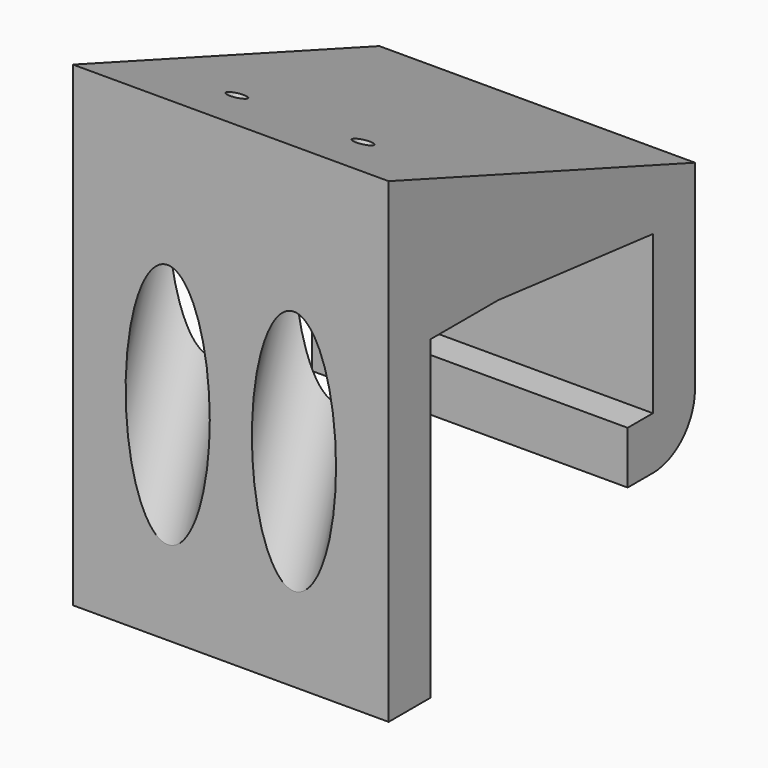
from build123d import *

# Parameters (mm, degrees)
F1_DEPTH = 15
F3_START = -2
F2_R     = 4
F3_DEPTH = 40.5202370871
F4_D     = 1.75
F5_R     = 5


with BuildPart() as f1:
    # F0 (on Right) → F1 (new body, symmetric)
    with BuildSketch(Plane.YZ):
        Polygon((-5, 15.2480270107), (-5, -30), (0, -30), (0, 0), (8, 0), (26.3986550643, -1.9337765705), (26.3986550643, -16.9337765705), (23.3986550643, -16.9337765705), (23.3986550643, -21.9337765705), (31.3986550643, -21.9337765705), (31.3986550643, 2), align=None)
    extrude(amount=F1_DEPTH, both=True)

    # F2 (on face) → F3 (cut)
    with BuildSketch(Plane(origin=(0, 4.3157325251, 11.8573776612), x_dir=(1, 0, 0), z_dir=(0, 0.3420201433, 0.9396926208)).offset(F3_START)):
        with Locations((-6, -1.1789558201)):
            Circle(F2_R)
        with Locations((6, -1.1789558201)):
            Circle(F2_R)
    extrude(amount=-F3_DEPTH, mode=Mode.SUBTRACT)

    # F4 (through all)
    with Locations(Plane(origin=(0, 4.3157325251, 11.8573776612), x_dir=(1, 0, 0), z_dir=(0, 0.3420201433, 0.9396926208))):
        with Locations((6, -1.1789558201), (-6, -1.1789558201)):
            Hole(F4_D / 2)

    # F5
    f5_edges = [f1.edges().sort_by_distance(p)[0] for p in [
        (0, 31.398655, -21.933777),
    ]]
    fillet(f5_edges, radius=F5_R)


solid = f1.part
